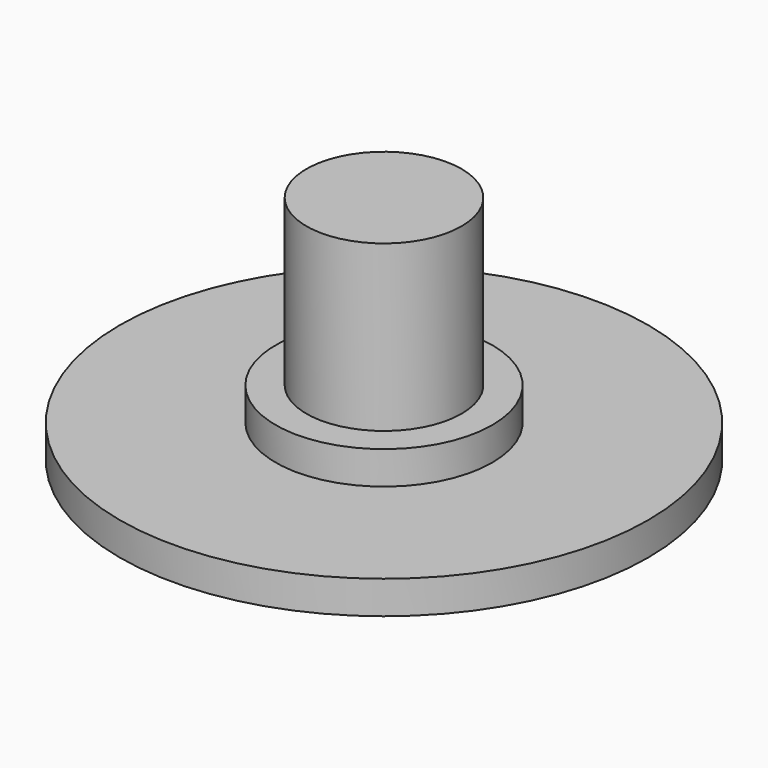
from build123d import *

# Parameters (mm, degrees)
F1_R          = 8
F1_R_2        = 2.35
F2_DEPTH      = 1
F3_DEPTH      = 7
F4_DEPTH      = 1.1
F4_DEPTH_BACK = 0.1016
F7_R          = 3.280158
F7_R_2        = 2.35
F8_DEPTH      = 1


with BuildPart() as f2:
    # F1 (on Top) → F2 (new body)
    with BuildSketch(Plane.XY):
        with Locations((0, 28.162442)):
            Circle(F1_R)
        with Locations((0, 28.162442)):
            Circle(F1_R_2, mode=Mode.SUBTRACT)
        with Locations((0, 28.162442)):
            Circle(F1_R_2)
    extrude(amount=F2_DEPTH)

    # F1 (on Top) → F3 (join)
    with BuildSketch(Plane.XY):
        with Locations((0, 28.162442)):
            Circle(F1_R_2)
    extrude(amount=F3_DEPTH)

    # F7 (on face) → F8 (join)
    with BuildSketch(Plane.XY.offset(1)):
        with Locations((0, 28.162442)):
            Circle(F7_R)
        with Locations((0, 28.162442)):
            Circle(F7_R_2, mode=Mode.SUBTRACT)
    extrude(amount=F8_DEPTH)


with BuildPart() as f4:
    # F1 (on Top) → F4 (new body, two sides)
    with BuildSketch(Plane.XY) as f4_sk:
        with Locations((0, 28.162442)):
            Circle(F1_R)
        with Locations((0, 28.162442)):
            Circle(F1_R_2, mode=Mode.SUBTRACT)
        with Locations((0, 28.162442)):
            Circle(F1_R_2)
    extrude(amount=-F4_DEPTH)
    extrude(f4_sk.sketch, amount=-F4_DEPTH_BACK)


with BuildPart() as f4_1:
    # F5: moved
    add(f4.part.moved(Location((-18.7706, 0, 1.0922))))


solid = f2.part
